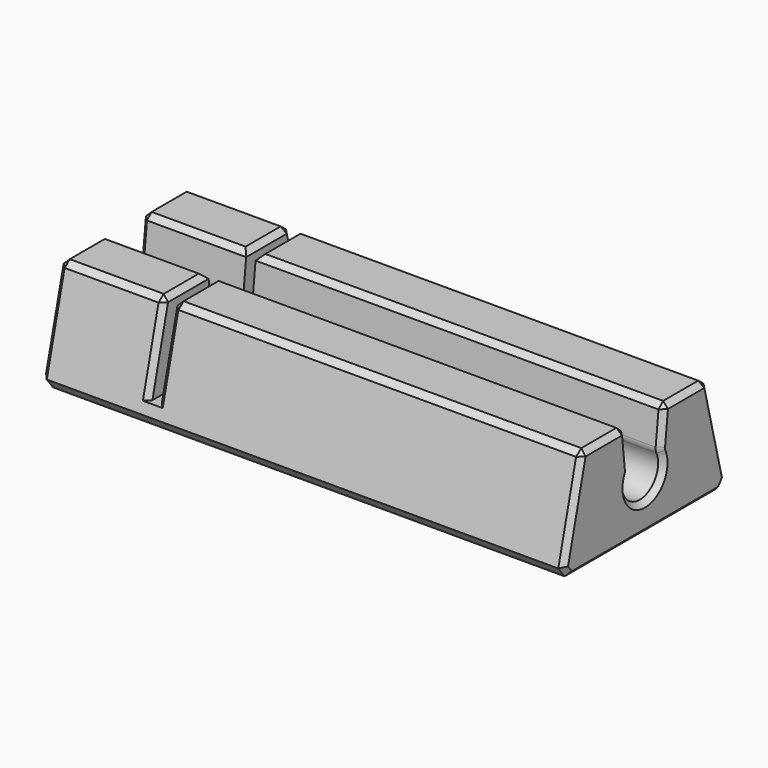
from build123d import *

# Parameters (mm, degrees)
PAD_DEPTH         = 50
SKETCH001_W       = 0.9
SKETCH001_H       = 10
POCKET_DEPTH      = 10.001
POCKET_DEPTH_BACK = -10.001
CHAMFER_SIZE      = 1
CHAMFER001_SIZE   = 0.5


with BuildPart() as part:
    # Sketch → Pad (new body)
    with BuildSketch(Plane.YZ):
        with BuildLine():
            Line((-10, 0), (10, 0))
            Line((10, 0), (7.5, 10))
            Line((7.5, 10), (2.3, 10))
            Line((2.3, 10), (1.906144, 6.463458))
            ThreePointArc((1.906144, 6.463458), (1.913219, 6.190714), (1.99375, 5.930033))
            ThreePointArc((-1.99375, 5.930033), (0, 2.8), (1.99375, 5.930033))
            ThreePointArc((-1.99375, 5.930033), (-1.913219, 6.190714), (-1.906144, 6.463458))
            Line((-1.906144, 6.463458), (-2.3, 10))
            Line((-2.3, 10), (-7.5, 10))
            Line((-7.5, 10), (-10, 0))
        make_face()
    extrude(amount=PAD_DEPTH)

    # Sketch001 → Pocket (cut, two sides)
    with BuildSketch(Plane.XZ) as pocket_sk:
        with Locations((10.45, 7)):
            Rectangle(SKETCH001_W, SKETCH001_H)
    extrude(amount=-POCKET_DEPTH, mode=Mode.SUBTRACT)
    extrude(pocket_sk.sketch, amount=-POCKET_DEPTH_BACK, mode=Mode.SUBTRACT)

    # Chamfer
    chamfer_edges = [part.edges().sort_by_distance(p)[0] for p in [
        (25, 10, 0),
        (25, -10, 0),
    ]]
    chamfer(chamfer_edges, length=CHAMFER_SIZE)

    # Chamfer001
    chamfer001_edges = [part.edges().sort_by_distance(p)[0] for p in [
        (50, -8.628732, 5.485071),
        (50, -9.378732, 0.485071),
        (50, -4.9, 10),
        (50, 0, 0),
        (50, -2.103072, 8.231729),
        (50, 9.378732, 0.485071),
        (50, -1.913219, 6.190714),
        (50, 8.628732, 5.485071),
        (50, 0, 2.8),
        (50, 4.9, 10),
        (50, 1.913219, 6.190714),
        (50, 2.103072, 8.231729),
        (0, -8.628732, 5.485071),
        (0, -9.378732, 0.485071),
        (0, -4.9, 10),
        (0, 0, 0),
        (0, -2.103072, 8.231729),
        (0, 9.378732, 0.485071),
        (0, -1.913219, 6.190714),
        (0, 8.628732, 5.485071),
        (0, 0, 2.8),
        (0, 4.9, 10),
        (0, 1.913219, 6.190714),
        (0, 2.103072, 8.231729),
        (5, -7.5, 10),
        (10, -4.9, 10),
        (5, -2.3, 10),
        (5, 2.3, 10),
        (10, 4.9, 10),
        (5, 7.5, 10),
        (10.9, 4.9, 10),
        (30.45, 2.3, 10),
        (30.45, 7.5, 10),
        (10.9, -4.9, 10),
        (30.45, -7.5, 10),
        (30.45, -2.3, 10),
        (10, -8.5, 6),
        (10, 8.5, 6),
        (10.9, 8.5, 6),
        (10.9, -8.5, 6),
    ]]
    chamfer(chamfer001_edges, length=CHAMFER001_SIZE)


solid = part.part
